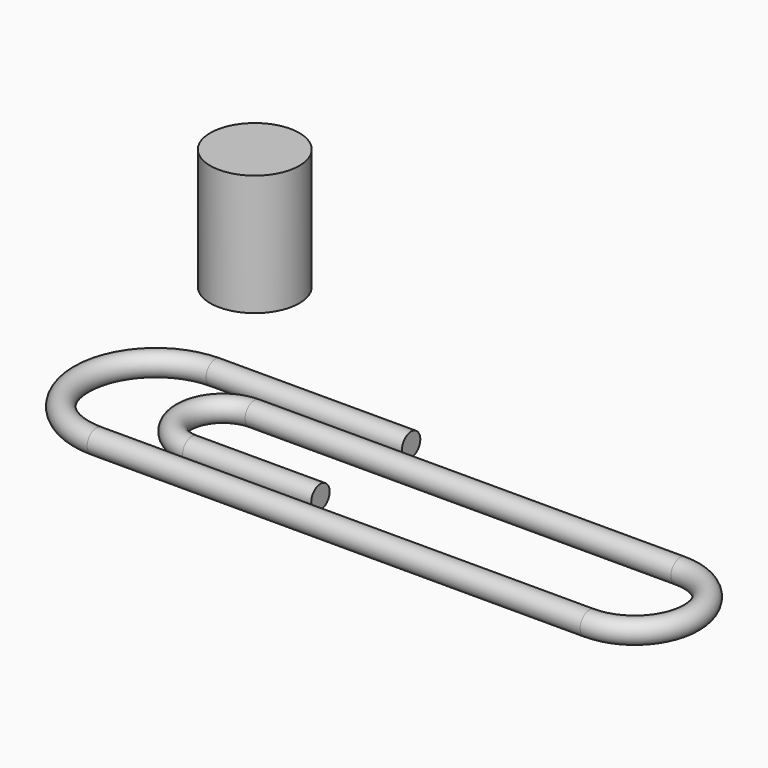
from build123d import *

# Parameters (mm, degrees)
F1_R     = 2.413
F3_R     = 9.342547
F4_DEPTH = 25.4


with BuildPart() as f2:
    # F2: sweep along a path in F0
    with BuildLine(Plane.XY) as f2_path:
        Line((0, 19.858181), (-41.101817, 19.858181))
        ThreePointArc((-41.101817, 19.858181), (-56.68818, 4.271818), (-41.101817, -11.314545))
        Line((-41.101817, -11.314545), (62.345453, -11.314545))
        ThreePointArc((62.345453, -11.314545), (74.23727, 0.577273), (62.345453, 12.469091))
        Line((62.345453, 12.469091), (-27.00454, 12.469091))
        ThreePointArc((-27.00454, 12.469091), (-35.201812, 4.271818), (-27.00454, -3.925454))
        Line((-27.00454, -3.925454), (0, -3.925454))
    # F1 (on Right) → F2 (sweep)
    with BuildSketch(Plane.YZ):
        with Locations((19.858181, 0)):
            Circle(F1_R)
    sweep(path=f2_path.line)


with BuildPart() as f4:
    # F3 (on Top) → F4 (new body)
    with BuildSketch(Plane.XY):
        with Locations((-54.96214, 47.567271)):
            Circle(F3_R)
    extrude(amount=F4_DEPTH)


solid = Compound([f2.part, f4.part])
